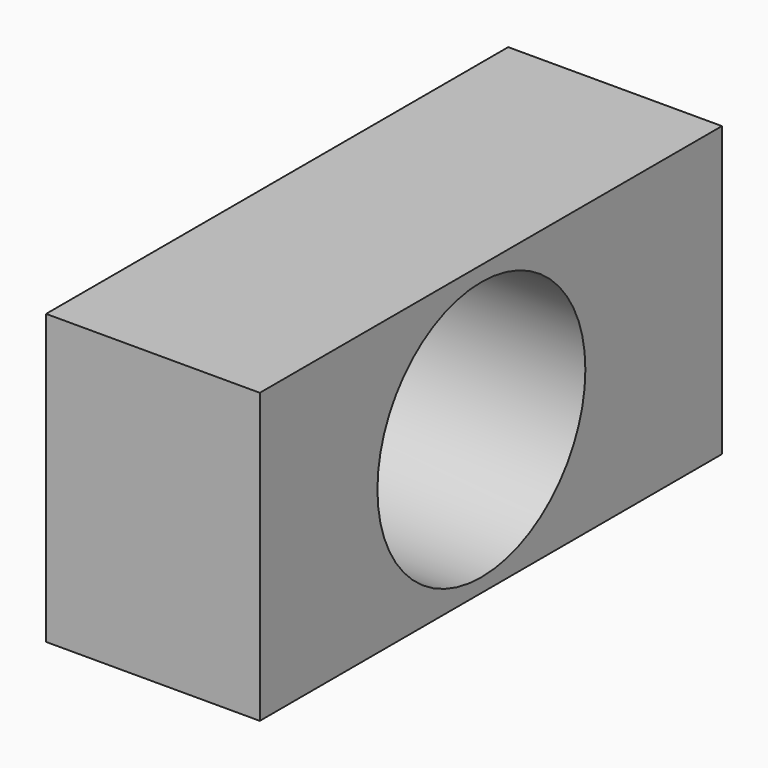
from build123d import *

# Parameters (mm, degrees)
F0_W      = 31.1259
F0_H      = 100
F0_W_2    = 150
F0_R      = 45
F0_W_3    = 18.8741
F1_DEPTH  = 25
F1_FACE_W = 200
F1_FACE_H = 100
F1_FACE_R = 45
F2_DEPTH  = 49


with BuildPart() as f1:
    # F0 (on Right) → F1 (new body)
    with BuildSketch(Plane.YZ):
        with Locations((-80.340354, 0.213285)):
            Rectangle(F0_W, F0_H)
        with Locations((10.222596, 0.213285)):
            Rectangle(F0_W_2, F0_H)
        Circle(F0_R, mode=Mode.SUBTRACT)
        with Locations((94.659646, 0.213285)):
            Rectangle(F0_W_3, F0_H)
    extrude(amount=F1_DEPTH)

    # F1_face (on face) → F2 (join)
    with BuildSketch(Plane(origin=(0, 6.007645, 0.312774), x_dir=(0, 1, 0), z_dir=(-1, 0, 0))):
        with Locations((-1.910949, 0.099489)):
            Rectangle(F1_FACE_W, F1_FACE_H)
        with Locations((-6.007645, 0.312774)):
            Circle(F1_FACE_R, mode=Mode.SUBTRACT)
    extrude(amount=F2_DEPTH)


solid = f1.part
